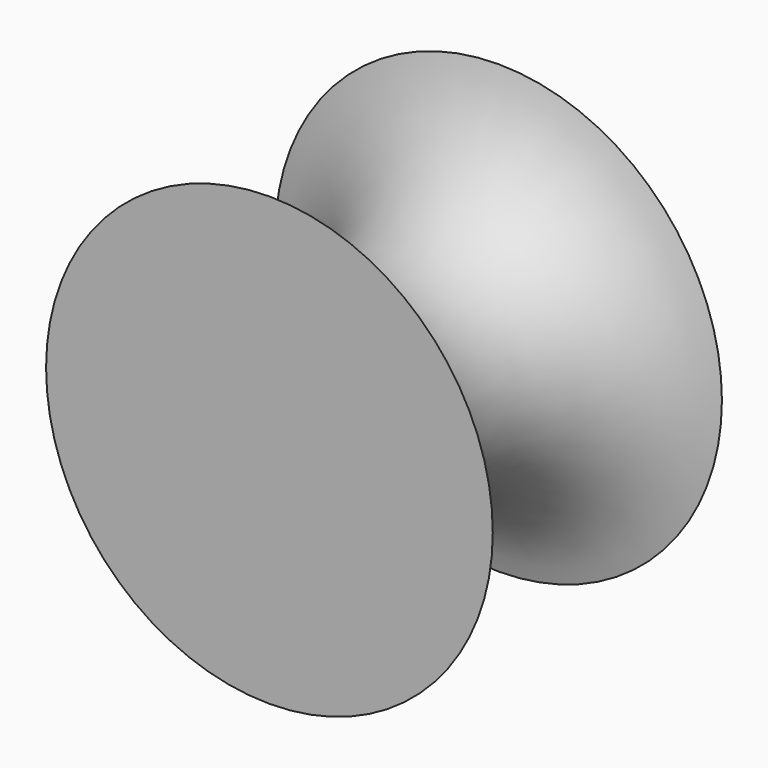
from build123d import *


with BuildPart() as f1:
    # F0 (on Top) → F1 (revolve)
    with BuildSketch(Plane.XY):
        with BuildLine():
            Line((61.28801, 32.321922), (0, 32.321922))
            Line((0, 32.321922), (0, -46.275102))
            Line((0, -46.275102), (61.28801, -46.275102))
            ThreePointArc((61.28801, -46.275102), (28.960481, -6.97659), (61.28801, 32.321922))
        make_face()
    revolve(axis=Axis((0, -6.97659, 0), (0, -1, 0)))


solid = f1.part
